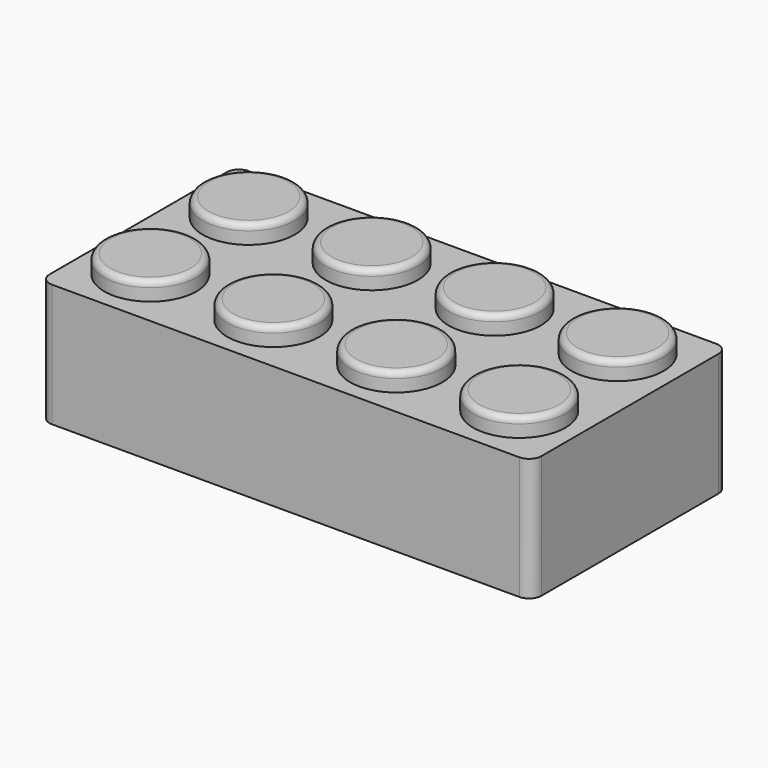
from build123d import *

# Parameters (mm, degrees)
F0_W     = 80
F0_H     = 40
F1_DEPTH = 10
F2_R     = 7.5
F3_DEPTH = 3
F4_R     = 7.5
F5_DEPTH = 3.5
F6_R     = 2
F7_R     = 1


with BuildPart() as f1:
    # F0 (on Top) → F1 (new body, symmetric)
    with BuildSketch(Plane.XY):
        Rectangle(F0_W, F0_H)
    extrude(amount=F1_DEPTH, both=True)

    # F2 (on face) → F3 (join)
    with BuildSketch(Plane.XY.offset(10)):
        with Locations((30, -10)):
            Circle(F2_R)
        with Locations((10, -10)):
            Circle(F2_R)
        with Locations((30, 10)):
            Circle(F2_R)
        with Locations((10, 10)):
            Circle(F2_R)
        with Locations((-10, -10)):
            Circle(F2_R)
        with Locations((-30, -10)):
            Circle(F2_R)
        with Locations((-30, 10)):
            Circle(F2_R)
        with Locations((-10, 10)):
            Circle(F2_R)
    extrude(amount=F3_DEPTH)

    # F4 (on face) → F5 (cut)
    with BuildSketch(Plane(origin=(0, 0, -10), x_dir=(1, 0, 0), z_dir=(0, 0, -1))):
        with Locations((30, 10)):
            Circle(F4_R)
        with Locations((30, -10)):
            Circle(F4_R)
        with Locations((10, 10)):
            Circle(F4_R)
        with Locations((10, -10)):
            Circle(F4_R)
        with Locations((-10, 10)):
            Circle(F4_R)
        with Locations((-10, -10)):
            Circle(F4_R)
        with Locations((-30, 10)):
            Circle(F4_R)
        with Locations((-30, -10)):
            Circle(F4_R)
    extrude(amount=-F5_DEPTH, mode=Mode.SUBTRACT)

    # F6
    f6_edges = [f1.edges().sort_by_distance(p)[0] for p in [
        (40, 20, 0),
        (-40, 20, 0),
        (-40, -20, 0),
        (40, -20, 0),
    ]]
    fillet(f6_edges, radius=F6_R)

    # F7
    f7_edges = [f1.edges().sort_by_distance(p)[0] for p in [
        (-37.5, 10, 13),
        (-17.5, 10, 13),
        (2.5, 10, 13),
        (22.5, 10, 13),
        (22.5, -10, 13),
        (2.5, -10, 13),
        (-17.5, -10, 13),
        (-37.5, -10, 13),
    ]]
    fillet(f7_edges, radius=F7_R)


solid = f1.part
